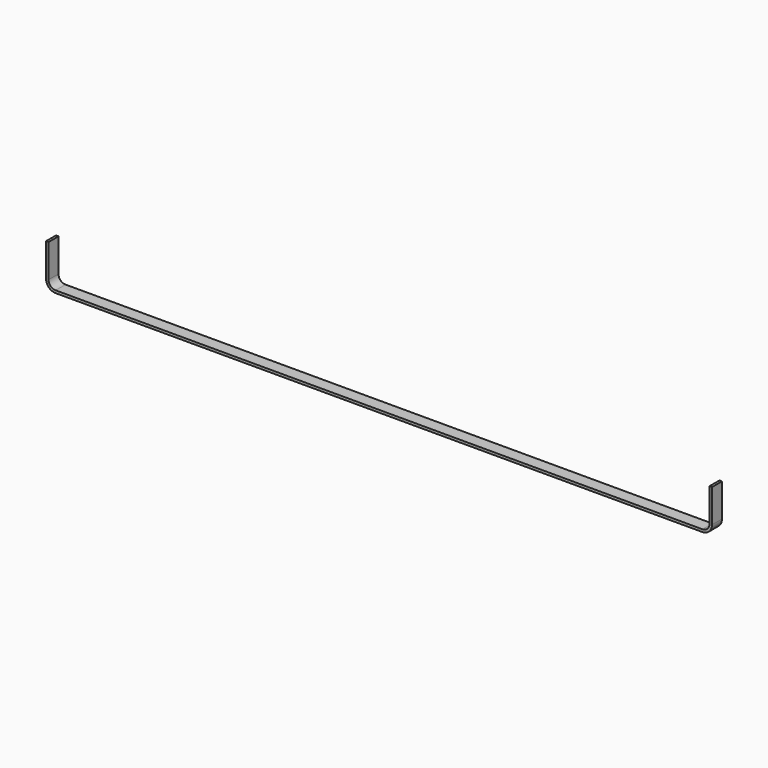
from build123d import *

# Parameters (mm, degrees)
F1_W = 3
F1_H = 15


with BuildPart() as f2:
    # F2: sweep along a path in F0
    with BuildLine(Plane.XZ) as f2_path:
        Line((0, 0), (0, -40))
        ThreePointArc((0, -40), (2.928932, -47.071068), (10, -50))
        Line((10, -50), (790, -50))
        ThreePointArc((790, -50), (797.071068, -47.071068), (800, -40))
        Line((800, -40), (800, 0))
    # F1 (on Top) → F2 (sweep)
    with BuildSketch(Plane.XY):
        Rectangle(F1_W, F1_H)
    sweep(path=f2_path.line)


solid = f2.part
